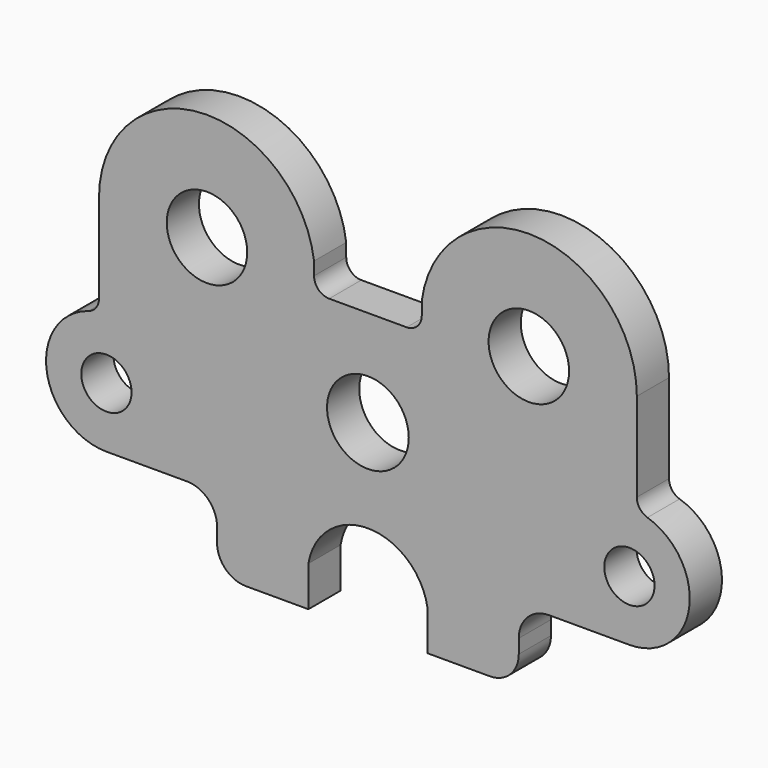
from build123d import *

# Parameters (mm, degrees)
F0_R     = 7.9375
F0_R_2   = 12.89792
F0_R_3   = 12.7
F1_DEPTH = 12.7


with BuildPart() as f1:
    # F0 (on Front) → F1 (new body)
    with BuildSketch(Plane.XZ):
        with BuildLine():
            ThreePointArc((84.889529, 47.763741), (53.033181, 81.780044), (17.003059, 52.220508))
            Line((17.003059, 52.220508), (17.003059, 48.071559))
            ThreePointArc((17.003059, 48.071559), (15.604436, 44.694983), (12.227859, 43.296359))
            Line((12.227859, 43.296359), (-12.227859, 43.296359))
            ThreePointArc((-12.227859, 43.296359), (-15.604436, 44.694983), (-17.003059, 48.071559))
            Line((-17.003059, 48.071559), (-17.003059, 52.220508))
            ThreePointArc((-17.003059, 52.220508), (-53.033181, 81.780044), (-84.889529, 47.763741))
            Line((-84.889529, 47.763741), (-84.889529, 19.701832))
            ThreePointArc((-84.889529, 19.701832), (-85.81688, 16.874007), (-88.238749, 15.144518))
            ThreePointArc((-88.238749, 15.144518), (-101.381152, -5.91553), (-82.546187, -22.086258))
            Line((-82.546187, -22.086258), (-57.146187, -22.081174))
            ThreePointArc((-57.146187, -22.081174), (-50.409763, -24.870308), (-47.619281, -31.606174))
            Line((-47.619281, -31.606174), (-47.619281, -36.029856))
            ThreePointArc((-47.619281, -36.029856), (-44.94901, -42.47646), (-38.502407, -45.14673))
            Line((-38.502407, -45.14673), (-18.790584, -45.14673))
            Line((-18.790584, -45.14673), (-18.790584, -32.44673))
            ThreePointArc((-18.790584, -32.44673), (0, -16.52985), (18.790584, -32.44673))
            Line((18.790584, -32.44673), (18.790584, -45.14673))
            Line((18.790584, -45.14673), (38.502407, -45.14673))
            ThreePointArc((38.502407, -45.14673), (44.94901, -42.47646), (47.619281, -36.029856))
            Line((47.619281, -36.029856), (47.619281, -31.606174))
            ThreePointArc((47.619281, -31.606174), (50.409763, -24.870308), (57.146187, -22.081174))
            Line((57.146187, -22.081174), (82.546187, -22.086258))
            ThreePointArc((82.546187, -22.086258), (101.381152, -5.91553), (88.238749, 15.144518))
            ThreePointArc((88.238749, 15.144518), (85.81688, 16.874007), (84.889529, 19.701832))
            Line((84.889529, 19.701832), (84.889529, 47.763741))
        make_face()
        with Locations((-82.55, -3.036259)):
            Circle(F0_R, mode=Mode.SUBTRACT)
        with Locations((0, 12.838741)):
            Circle(F0_R_2, mode=Mode.SUBTRACT)
        with Locations((82.55, -3.036259)):
            Circle(F0_R, mode=Mode.SUBTRACT)
        with Locations((-50.8, 47.763741)):
            Circle(F0_R_3, mode=Mode.SUBTRACT)
        with Locations((50.8, 47.763741)):
            Circle(F0_R_3, mode=Mode.SUBTRACT)
    extrude(amount=F1_DEPTH)


solid = f1.part
